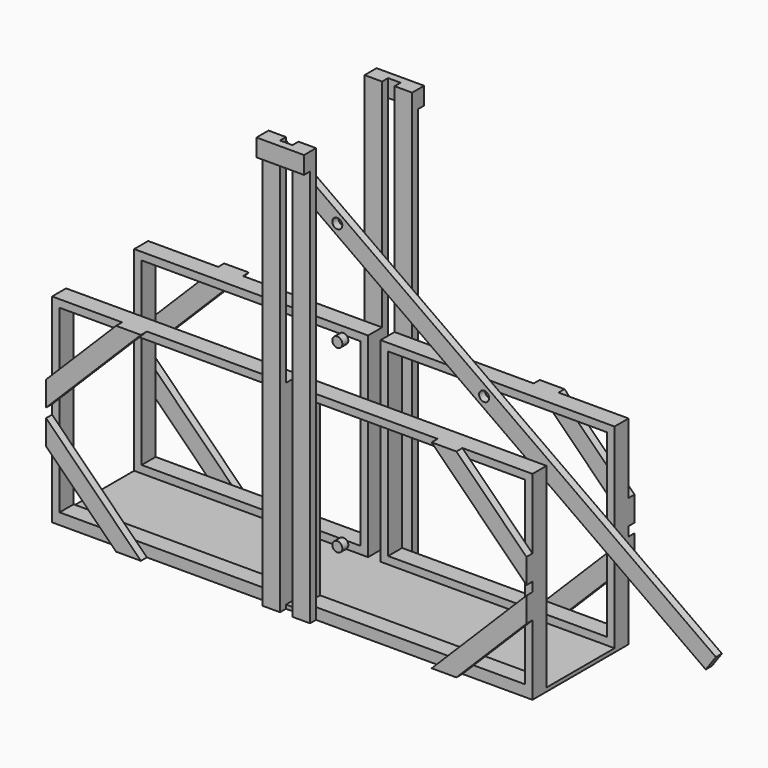
from build123d import *

# Parameters (mm, degrees)
F0_W      = 2438.4
F0_H      = 609.6
F1_DEPTH  = 19.05
F2_W      = 1187.45
F2_H      = 88.9
F3_DEPTH  = 38.1
F4_W      = 38.1
F4_H      = 88.9
F5_DEPTH  = 914.4
F6_W      = 1187.45
F6_H      = 88.9
F7_DEPTH  = 38.1
F8_W      = 88.9
F8_H      = 2108.2
F9_DEPTH  = 38.1
F10_W     = 88.9
F10_H     = 2108.2
F11_DEPTH = 38.1
F12_W     = 241.3
F12_H     = 88.9
F13_DEPTH = 38.1
F14_W     = 241.3
F14_H     = 88.9
F15_DEPTH = 38.1
F17_R     = 25.4
F18_DEPTH = 19.05


with BuildPart() as f1:
    # F0 (on Top) → F1 (new body)
    with BuildSketch(Plane.XY):
        with Locations((1219.2, -304.8)):
            Rectangle(F0_W, F0_H)
    extrude(amount=F1_DEPTH)

    # F2 (on face) → F3 (join)
    with BuildSketch(Plane.XY.offset(19.05)):
        with Locations((593.725, -44.45)):
            Rectangle(F2_W, F2_H)
        with Locations((1844.675, -44.45)):
            Rectangle(F2_W, F2_H)
        with Locations((593.725, -565.15)):
            Rectangle(F2_W, F2_H)
        with Locations((1844.675, -565.15)):
            Rectangle(F2_W, F2_H)
    extrude(amount=F3_DEPTH)

    # F4 (on face) → F5 (join)
    with BuildSketch(Plane.XY.offset(57.15)):
        with Locations((19.05, -44.45)):
            Rectangle(F4_W, F4_H)
        with Locations((1168.4, -44.45)):
            Rectangle(F4_W, F4_H)
        with Locations((1168.4, -565.15)):
            Rectangle(F4_W, F4_H)
        with Locations((19.05, -565.15)):
            Rectangle(F4_W, F4_H)
        with Locations((1270, -44.45)):
            Rectangle(F4_W, F4_H)
        with Locations((1270, -565.15)):
            Rectangle(F4_W, F4_H)
        with Locations((2419.35, -565.15)):
            Rectangle(F4_W, F4_H)
        with Locations((2419.35, -44.45)):
            Rectangle(F4_W, F4_H)
    extrude(amount=F5_DEPTH)

    # F6 (on face) → F7 (join)
    with BuildSketch(Plane.XY.offset(971.55)):
        with Locations((593.725, -44.45)):
            Rectangle(F6_W, F6_H)
        with Locations((1844.675, -44.45)):
            Rectangle(F6_W, F6_H)
        with Locations((1844.675, -565.15)):
            Rectangle(F6_W, F6_H)
        with Locations((593.725, -565.15)):
            Rectangle(F6_W, F6_H)
    extrude(amount=F7_DEPTH)

    # F8 (on face) → F9 (join)
    with BuildSketch(Plane.XZ.offset(609.6)):
        with Locations((1295.4, 1054.1)):
            Rectangle(F8_W, F8_H)
        Polygon((2438.4, 654.05), (2082.8, 1009.65), (1957.076414305, 1009.65), (2438.4, 528.326414305), align=None)
        Polygon((2438.4, 355.6), (2438.4, 481.323585695), (1957.076414305, 0), (2082.8, 0), align=None)
        Polygon((0, 355.6), (355.6, 0), (481.323585695, 0), (0, 481.323585695), align=None)
        Polygon((481.323585695, 1009.65), (355.6, 1009.65), (0, 654.05), (0, 528.326414305), align=None)
        with Locations((1143, 1054.1)):
            Rectangle(F8_W, F8_H)
    extrude(amount=F9_DEPTH)

    # F10 (on face) → F11 (join)
    with BuildSketch(Plane(origin=(0, 0, 0), x_dir=(-1, 0, 0), z_dir=(0, 1, 0))):
        with Locations((-1143, 1054.1)):
            Rectangle(F10_W, F10_H)
        Polygon((0, 654.05), (-355.6, 1009.65), (-481.323585695, 1009.65), (0, 528.326414305), align=None)
        Polygon((0, 355.6), (0, 481.323585695), (-481.323585695, 0), (-355.6, 0), align=None)
        Polygon((-2438.4, 355.6), (-2082.8, 0), (-1957.076414305, 0), (-2438.4, 481.323585695), align=None)
        Polygon((-1957.076414305, 1009.65), (-2082.8, 1009.65), (-2438.4, 654.05), (-2438.4, 528.326414305), align=None)
        with Locations((-1295.4, 1054.1)):
            Rectangle(F10_W, F10_H)
    extrude(amount=F11_DEPTH)

    # F12 (on face) → F13 (join)
    with BuildSketch(Plane(origin=(0, 38.1, 0), x_dir=(-1, 0, 0), z_dir=(0, 1, 0))):
        with Locations((-1219.2, 2063.75)):
            Rectangle(F12_W, F12_H)
    extrude(amount=F13_DEPTH)

    # F14 (on face) → F15 (join)
    with BuildSketch(Plane.XZ.offset(647.7)):
        with Locations((1219.2, 2063.75)):
            Rectangle(F14_W, F14_H)
    extrude(amount=F15_DEPTH)


with BuildPart() as f18:
    # F17 (on offset) → F18 (new body, symmetric)
    with BuildSketch(Plane.XZ.offset(304.8)):
        Polygon((3140.9959368845, 303.3955563917), (926.3368722694, 1878.7437932961), (1102.4820206955, 1644.3499864541), (3089.465854369, 230.9534374557), align=None)
        with Locations((1964.3189376275, 1085.85)):
            Circle(F17_R, mode=Mode.SUBTRACT)
        with Locations((1219.2, 1615.8737058744)):
            Circle(F17_R, mode=Mode.SUBTRACT)
    extrude(amount=F18_DEPTH, both=True)


with BuildPart() as f18b:
    # F17 (on offset) → F18, piece 2 (new body, symmetric)
    with BuildSketch(Plane.XZ.offset(304.8)):
        with Locations((1219.2, 1085.85)):
            Circle(F17_R)
    extrude(amount=F18_DEPTH, both=True)


with BuildPart() as f18c:
    # F17 (on offset) → F18, piece 3 (new body, symmetric)
    with BuildSketch(Plane.XZ.offset(304.8)):
        with Locations((1219.2, 171.45)):
            Circle(F17_R)
    extrude(amount=F18_DEPTH, both=True)


solid = Compound([f1.part, f18.part, f18b.part, f18c.part])
